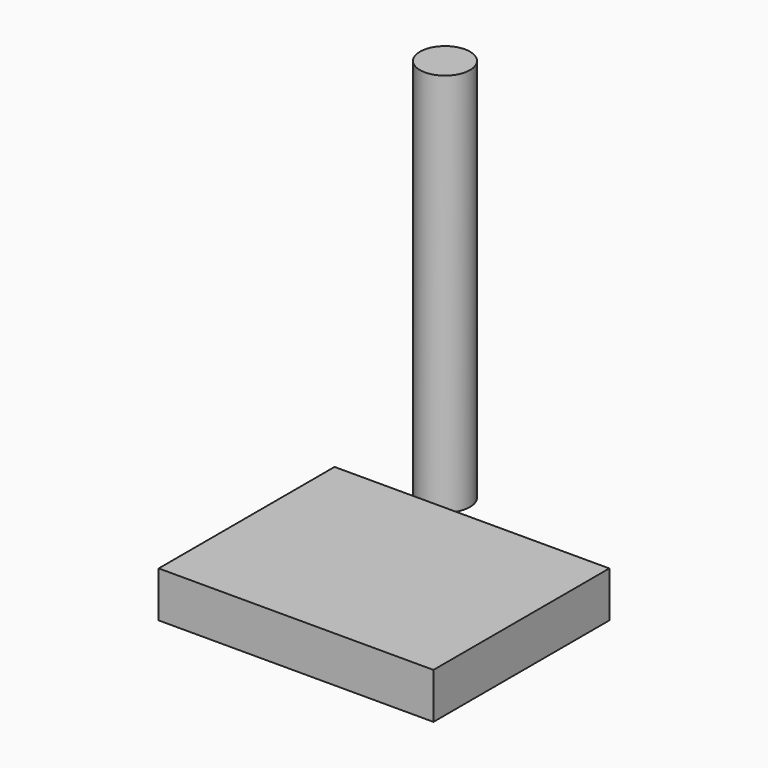
from build123d import *

# Parameters (mm, degrees)
F0_W          = 381
F0_H          = 63.5
F1_DEPTH      = 304.8
F2_R          = 34.670999
F3_DEPTH      = 508
F3_DEPTH_BACK = 25.4


with BuildPart() as f1:
    # F0 (on Front) → F1 (new body)
    with BuildSketch(Plane.XZ):
        with Locations((190.5, 31.75)):
            Rectangle(F0_W, F0_H)
    extrude(amount=F1_DEPTH)


with BuildPart() as f3:
    # F2 (on Top) → F3 (new body, two sides)
    with BuildSketch(Plane.XY) as f3_sk:
        with Locations((31.988561, 151.465237)):
            Circle(F2_R)
    extrude(amount=F3_DEPTH)
    extrude(f3_sk.sketch, amount=-F3_DEPTH_BACK)


solid = Compound([f1.part, f3.part])
